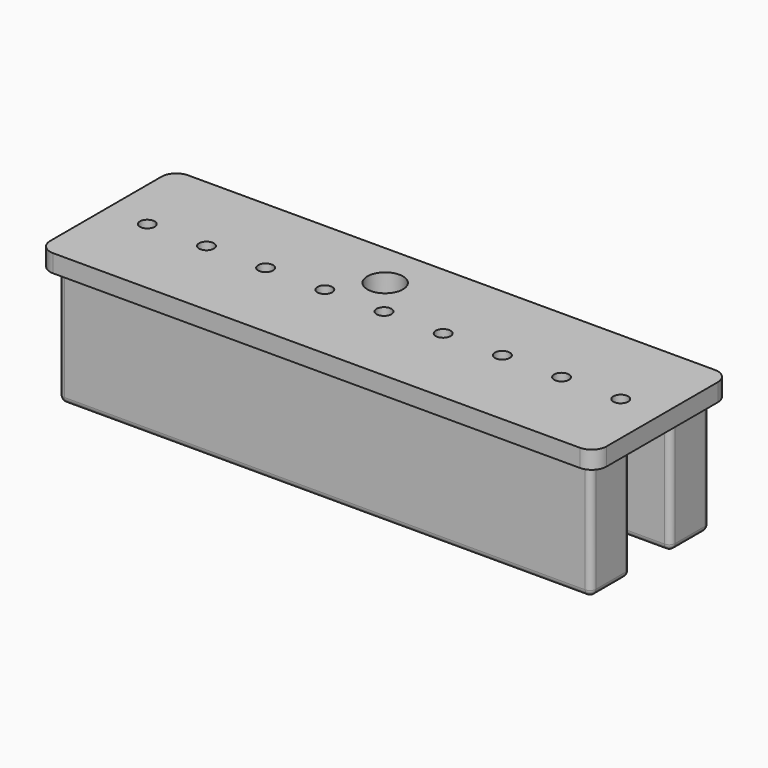
from build123d import *

# Parameters (mm, degrees)
SKETCH_W        = 180
SKETCH_H        = 50
PAD_DEPTH       = 40
SKETCH001_W     = 188
SKETCH001_H     = 57
PAD001_DEPTH    = 6
SKETCH003_W     = 50
SKETCH003_H     = 17
POCKET_DEPTH    = 38
SKETCH004_R     = 2.5
POCKET001_DEPTH = 46.001
FILLET_R        = 5
FILLET001_R     = 2
POCKET002_DEPTH = 5
SKETCH006_R     = 6
POCKET003_DEPTH = 8.001


with BuildPart() as part:
    # Sketch → Pad (new body)
    with BuildSketch(Plane.XY):
        Rectangle(SKETCH_W, SKETCH_H)
    extrude(amount=PAD_DEPTH)

    # Sketch001 (on Face6 of Pad) → Pad001 (join)
    with BuildSketch(Plane.XY.offset(40)):
        Rectangle(SKETCH001_W, SKETCH001_H)
    extrude(amount=PAD001_DEPTH)

    # Sketch003 (on Face11 of Pad001) → Pocket (cut)
    with BuildSketch(Plane(origin=(0, 0, 0), x_dir=(1, 0, 0), z_dir=(0, 0, -1))):
        Polygon((-85, -20), (85, -20), (85, -13.5), (66, -13.5), (66, 13.5), (85, 13.5), (85, 20), (-85, 20), (-85, 13.5), (-66, 13.5), (-66, -13.5), (-85, -13.5), align=None)
        with Locations((-96, 0)):
            Rectangle(SKETCH003_W, SKETCH003_H)
        with Locations((96, 0)):
            Rectangle(SKETCH003_W, SKETCH003_H)
    extrude(amount=-POCKET_DEPTH, mode=Mode.SUBTRACT)

    # Sketch004 (on Face5 of Pocket) → Pocket001 (cut, through all)
    with BuildSketch(Plane.XY.offset(46)):
        with Locations((-80, 0)):
            Circle(SKETCH004_R)
        with Locations((-60, 0)):
            Circle(SKETCH004_R)
        with Locations((-40, 0)):
            Circle(SKETCH004_R)
        with Locations((-20, 0)):
            Circle(SKETCH004_R)
        Circle(SKETCH004_R)
        with Locations((20, 0)):
            Circle(SKETCH004_R)
        with Locations((40, 0)):
            Circle(SKETCH004_R)
        with Locations((60, 0)):
            Circle(SKETCH004_R)
        with Locations((80, 0)):
            Circle(SKETCH004_R)
    extrude(amount=-POCKET001_DEPTH, mode=Mode.SUBTRACT)

    # Fillet
    fillet_edges = [part.edges().sort_by_distance(p)[0] for p in [
        (94, 28.5, 43),
        (94, -28.5, 43),
        (-94, -28.5, 43),
        (-94, 28.5, 43),
    ]]
    fillet(fillet_edges, radius=FILLET_R)

    # Fillet001
    fillet001_edges = [part.edges().sort_by_distance(p)[0] for p in [
        (-90, 16.75, 0),
        (-80.5, 8.5, 0),
        (-71, 0, 0),
        (-80.5, -8.5, 0),
        (-90, -16.75, 0),
        (0, -25, 0),
        (90, -16.75, 0),
        (80.5, -8.5, 0),
        (71, 0, 0),
        (80.5, 8.5, 0),
        (90, 16.75, 0),
        (0, 25, 0),
        (-75.5, -13.5, 0),
        (-66, 0, 0),
        (-75.5, 13.5, 0),
        (-85, 16.75, 0),
        (0, 20, 0),
        (85, 16.75, 0),
        (75.5, 13.5, 0),
        (66, 0, 0),
        (75.5, -13.5, 0),
        (85, -16.75, 0),
        (0, -20, 0),
        (-85, -16.75, 0),
        (-90, -8.5, 19),
        (-90, 25, 20),
        (-90, 8.5, 19),
        (90, -25, 20),
        (-90, -25, 20),
        (90, 25, 20),
        (90, -8.5, 19),
        (90, 8.5, 19),
        (-66, 13.5, 19),
        (-66, -13.5, 19),
        (66, -13.5, 19),
        (66, 13.5, 19),
    ]]
    fillet(fillet001_edges, radius=FILLET001_R)

    # Sketch005 (on Face73 of Fillet001) → Pocket002 (cut)
    with BuildSketch(Plane(origin=(0, 0, 38), x_dir=(1, 0, 0), z_dir=(0, 0, -1))):
        Polygon((-77.748334, -3.9), (-75.496668, 0), (-77.748334, 3.9), (-82.251666, 3.9), (-84.503332, 0), (-82.251666, -3.9), align=None)
        Polygon((-57.748334, -3.9), (-55.496668, 0), (-57.748334, 3.9), (-62.251666, 3.9), (-64.503332, 0), (-62.251666, -3.9), align=None)
        Polygon((-37.748334, -3.9), (-35.496668, 0), (-37.748334, 3.9), (-42.251666, 3.9), (-44.503332, 0), (-42.251666, -3.9), align=None)
        Polygon((-17.748334, -3.9), (-15.496668, 0), (-17.748334, 3.9), (-22.251666, 3.9), (-24.503332, 0), (-22.251666, -3.9), align=None)
        Polygon((2.251666, -3.9), (4.503332, 0), (2.251666, 3.9), (-2.251666, 3.9), (-4.503332, 0), (-2.251666, -3.9), align=None)
        Polygon((22.251666, -3.9), (24.503332, 0), (22.251666, 3.9), (17.748334, 3.9), (15.496668, 0), (17.748334, -3.9), align=None)
        Polygon((42.251666, -3.9), (44.503332, 0), (42.251666, 3.9), (37.748334, 3.9), (35.496668, 0), (37.748334, -3.9), align=None)
        Polygon((62.251666, -3.9), (64.503332, 0), (62.251666, 3.9), (57.748334, 3.9), (55.496668, 0), (57.748334, -3.9), align=None)
        Polygon((82.251666, -3.9), (84.503332, 0), (82.251666, 3.9), (77.748334, 3.9), (75.496668, 0), (77.748334, -3.9), align=None)
    extrude(amount=-POCKET002_DEPTH, mode=Mode.SUBTRACT)

    # Sketch006 (on Face152 of Pocket002) → Pocket003 (cut, through all)
    with BuildSketch(Plane(origin=(0, 0, 38), x_dir=(1, 0, 0), z_dir=(0, 0, -1))):
        with Locations((-10, -13)):
            Circle(SKETCH006_R)
    extrude(amount=-POCKET003_DEPTH, mode=Mode.SUBTRACT)


solid = part.part
